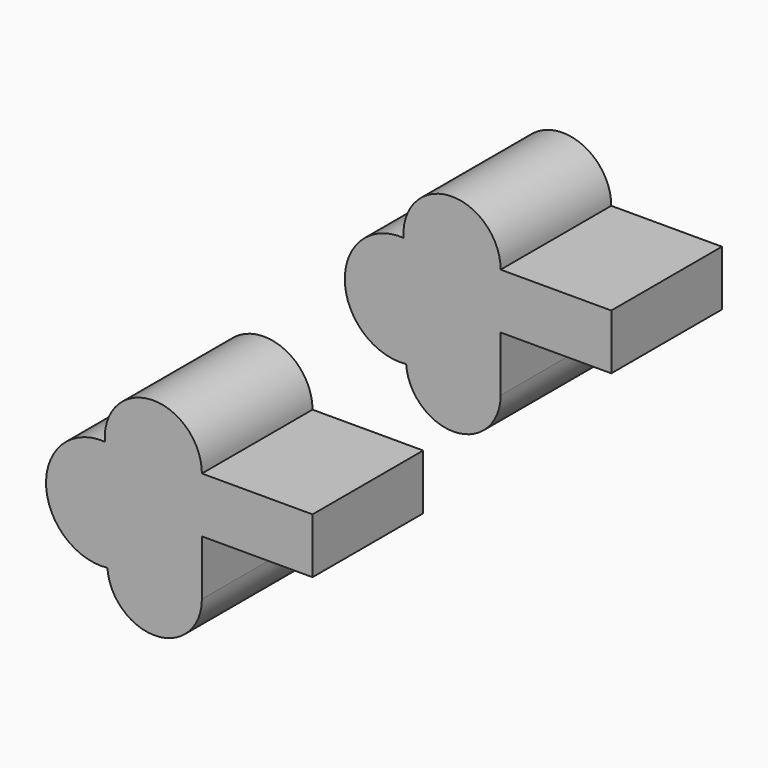
from build123d import *

# Parameters (mm, degrees)
F0_W     = 50.8
F0_H     = 50.8
F1_DEPTH = 50.8
F2_DEPTH = 38.1
F3_DEPTH = 25.4


with BuildPart() as f1:
    # F0 (on Front) → F1 (new body, symmetric)
    with BuildSketch(Plane.XZ):
        with BuildLine():
            Line((-25.4, -25.4), (-25.4, 25.4))
            ThreePointArc((-25.4, 25.4), (-48.5404031245, 47.6929040858), (-69.95479078, 23.7371984881))
            ThreePointArc((-69.95479078, 23.7371984881), (-53.0381009588, 15.7728687998), (-46.1561139136, -1.6122741735))
            ThreePointArc((-46.1561139136, -1.6122741735), (-52.6367227853, -18.5597412211), (-68.7715973255, -26.8591842294))
            ThreePointArc((-68.7715973255, -26.8591842294), (-46.3803399833, -47.0980683079), (-25.4, -25.4))
        make_face()
        with BuildLine():
            ThreePointArc((-46.1561139136, -1.6122741735), (-53.0381009588, 15.7728687998), (-69.95479078, 23.7371984881))
            ThreePointArc((-69.95479078, 23.7371984881), (-96.949171696, -2.2060893465), (-68.7715973255, -26.8591842294))
            ThreePointArc((-68.7715973255, -26.8591842294), (-52.6367227853, -18.5597412211), (-46.1561139136, -1.6122741735))
        make_face()
        Rectangle(F0_W, F0_H)
    extrude(amount=F1_DEPTH, both=True)

    # F2 (cut, symmetric): a face of the model
    f2_faces = [f1.faces().sort_by_distance(p)[0] for p in [
        (-36.1004850227, -50.8, -0.0239941364),
    ]]
    extrude(f2_faces, amount=F2_DEPTH, both=True, mode=Mode.SUBTRACT)

    # F3 (cut): a face of the model
    f3_faces = [f1.faces().sort_by_distance(p)[0] for p in [
        (0, 19.05, -25.4),
    ]]
    extrude(f3_faces, amount=-F3_DEPTH, mode=Mode.SUBTRACT)


with BuildPart() as f4_1:
    # F4: copy of F1
    add(f1.part.moved(Location((76.2, 76.2, 76.2))))


solid = Compound([f1.part, f4_1.part])
